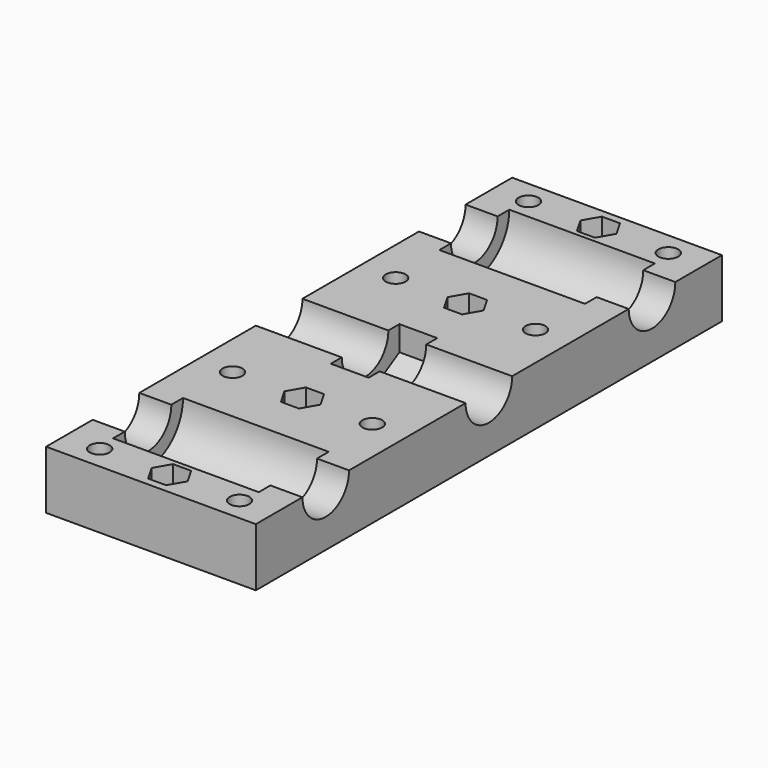
from build123d import *

# Parameters (mm, degrees)
PRISM004_DEPTH          = 5
PRISM003_DEPTH          = 5
PRISM002_DEPTH          = 5
PRISM001_DEPTH          = 5
CYLINDER016_R           = 1.7
CYLINDER016_DEPTH       = 10
CYLINDER015_R           = 1.7
CYLINDER015_DEPTH       = 10
CYLINDER014_R           = 1.7
CYLINDER014_DEPTH       = 10
CYLINDER013_R           = 1.7
CYLINDER013_DEPTH       = 10
CYLINDER012_R           = 1.7
CYLINDER012_DEPTH       = 10
CYLINDER011_R           = 1.7
CYLINDER011_DEPTH       = 10
CYLINDER010_R           = 1.7
CYLINDER010_DEPTH       = 10
CYLINDER009_R           = 1.7
CYLINDER009_DEPTH       = 10
CYLINDER008_R           = 1.7
CYLINDER008_DEPTH       = 10
CYLINDER007_R           = 1.7
CYLINDER007_DEPTH       = 10
CYLINDER006_R           = 1.7
CYLINDER006_DEPTH       = 10
CYLINDER005_R           = 1.7
CYLINDER005_DEPTH       = 10
PRISM_DEPTH             = 6.5
PRISM_PITCH_ANGLE       = 90
CYLINDER004_R           = 7.5
CYLINDER004_DEPTH       = 25
CYLINDER004_PITCH_ANGLE = 90
CYLINDER003_R           = 7.5
CYLINDER003_DEPTH       = 25
CYLINDER003_PITCH_ANGLE = 90
CYLINDER002_R           = 5
CYLINDER002_DEPTH       = 36
CYLINDER002_PITCH_ANGLE = 90
CYLINDER001_R           = 5
CYLINDER001_DEPTH       = 36
CYLINDER001_PITCH_ANGLE = 90
CYLINDER_R              = 5
CYLINDER_DEPTH          = 36
CYLINDER_PITCH_ANGLE    = 90
BOX_W                   = 36
BOX_H                   = 100
BOX_DEPTH               = 10


with BuildPart() as prisma004:
    # Prism004 → Prism004 (new body)
    with BuildSketch(Plane(origin=(18, 96, 5), x_dir=(1, 0, 0), z_dir=(0, 0, 1))):
        Polygon((3.1, 0), (1.55, 2.684679), (-1.55, 2.684679), (-3.1, 0), (-1.55, -2.684679), (1.55, -2.684679), align=None)
    extrude(amount=PRISM004_DEPTH)


with BuildPart() as prisma003:
    # Prism003 → Prism003 (new body)
    with BuildSketch(Plane(origin=(18, 67.5, 5), x_dir=(1, 0, 0), z_dir=(0, 0, 1))):
        Polygon((3.1, 0), (1.55, 2.684679), (-1.55, 2.684679), (-3.1, 0), (-1.55, -2.684679), (1.55, -2.684679), align=None)
    extrude(amount=PRISM003_DEPTH)


with BuildPart() as prisma002:
    # Prism002 → Prism002 (new body)
    with BuildSketch(Plane(origin=(18, 32.5, 5), x_dir=(1, 0, 0), z_dir=(0, 0, 1))):
        Polygon((3.1, 0), (1.55, 2.684679), (-1.55, 2.684679), (-3.1, 0), (-1.55, -2.684679), (1.55, -2.684679), align=None)
    extrude(amount=PRISM002_DEPTH)


with BuildPart() as prisma001:
    # Prism001 → Prism001 (new body)
    with BuildSketch(Plane(origin=(18, 4, 5), x_dir=(1, 0, 0), z_dir=(0, 0, 1))):
        Polygon((3.1, 0), (1.55, 2.684679), (-1.55, 2.684679), (-3.1, 0), (-1.55, -2.684679), (1.55, -2.684679), align=None)
    extrude(amount=PRISM001_DEPTH)


with BuildPart() as cilindro016:
    # Cylinder016 → Cylinder016 (new body)
    with BuildSketch(Plane(origin=(18, 96, 0), x_dir=(1, 0, 0), z_dir=(0, 0, 1))):
        Circle(CYLINDER016_R)
    extrude(amount=CYLINDER016_DEPTH)


with BuildPart() as cilindro015:
    # Cylinder015 → Cylinder015 (new body)
    with BuildSketch(Plane(origin=(18, 67.5, 0), x_dir=(1, 0, 0), z_dir=(0, 0, 1))):
        Circle(CYLINDER015_R)
    extrude(amount=CYLINDER015_DEPTH)


with BuildPart() as cilindro014:
    # Cylinder014 → Cylinder014 (new body)
    with BuildSketch(Plane(origin=(18, 32.5, 0), x_dir=(1, 0, 0), z_dir=(0, 0, 1))):
        Circle(CYLINDER014_R)
    extrude(amount=CYLINDER014_DEPTH)


with BuildPart() as cilindro013:
    # Cylinder013 → Cylinder013 (new body)
    with BuildSketch(Plane(origin=(18, 4, 0), x_dir=(1, 0, 0), z_dir=(0, 0, 1))):
        Circle(CYLINDER013_R)
    extrude(amount=CYLINDER013_DEPTH)


with BuildPart() as cilindro012:
    # Cylinder012 → Cylinder012 (new body)
    with BuildSketch(Plane(origin=(30, 96, 0), x_dir=(1, 0, 0), z_dir=(0, 0, 1))):
        Circle(CYLINDER012_R)
    extrude(amount=CYLINDER012_DEPTH)


with BuildPart() as cilindro011:
    # Cylinder011 → Cylinder011 (new body)
    with BuildSketch(Plane(origin=(6, 96, 0), x_dir=(1, 0, 0), z_dir=(0, 0, 1))):
        Circle(CYLINDER011_R)
    extrude(amount=CYLINDER011_DEPTH)


with BuildPart() as cilindro010:
    # Cylinder010 → Cylinder010 (new body)
    with BuildSketch(Plane(origin=(30, 67.5, 0), x_dir=(1, 0, 0), z_dir=(0, 0, 1))):
        Circle(CYLINDER010_R)
    extrude(amount=CYLINDER010_DEPTH)


with BuildPart() as cilindro009:
    # Cylinder009 → Cylinder009 (new body)
    with BuildSketch(Plane(origin=(6, 67.5, 0), x_dir=(1, 0, 0), z_dir=(0, 0, 1))):
        Circle(CYLINDER009_R)
    extrude(amount=CYLINDER009_DEPTH)


with BuildPart() as cilindro008:
    # Cylinder008 → Cylinder008 (new body)
    with BuildSketch(Plane(origin=(30, 32.5, 0), x_dir=(1, 0, 0), z_dir=(0, 0, 1))):
        Circle(CYLINDER008_R)
    extrude(amount=CYLINDER008_DEPTH)


with BuildPart() as cilindro007:
    # Cylinder007 → Cylinder007 (new body)
    with BuildSketch(Plane(origin=(6, 32.5, 0), x_dir=(1, 0, 0), z_dir=(0, 0, 1))):
        Circle(CYLINDER007_R)
    extrude(amount=CYLINDER007_DEPTH)


with BuildPart() as cilindro006:
    # Cylinder006 → Cylinder006 (new body)
    with BuildSketch(Plane(origin=(30, 4, 0), x_dir=(1, 0, 0), z_dir=(0, 0, 1))):
        Circle(CYLINDER006_R)
    extrude(amount=CYLINDER006_DEPTH)


with BuildPart() as cilindro005:
    # Cylinder005 → Cylinder005 (new body)
    with BuildSketch(Plane(origin=(6, 4, 0), x_dir=(1, 0, 0), z_dir=(0, 0, 1))):
        Circle(CYLINDER005_R)
    extrude(amount=CYLINDER005_DEPTH)


with BuildPart() as prisma:
    # Prism → Prism (new body)
    with BuildSketch(Plane.XY):
        Polygon((8.5, 0), (4.25, 7.361216), (-4.25, 7.361216), (-8.5, 0), (-4.25, -7.361216), (4.25, -7.361216), align=None)
    extrude(amount=PRISM_DEPTH)


with BuildPart() as prisma_1:
    # Prism pitch: moved
    add(prisma.part.rotate(Axis((0, 0, 0), (0, 1, 0)), PRISM_PITCH_ANGLE))


with BuildPart() as prisma_2:
    # Prism placement: moved
    add(prisma_1.part.moved(Location((14.75, 50, 10))))


with BuildPart() as cilindro004:
    # Cylinder004 → Cylinder004 (new body)
    with BuildSketch(Plane.XY):
        Circle(CYLINDER004_R)
    extrude(amount=CYLINDER004_DEPTH)


with BuildPart() as cilindro004_1:
    # Cylinder004 pitch: moved
    add(cilindro004.part.rotate(Axis((0, 0, 0), (0, 1, 0)), CYLINDER004_PITCH_ANGLE))


with BuildPart() as cilindro004_2:
    # Cylinder004 placement: moved
    add(cilindro004_1.part.moved(Location((5.5, 85, 10))))


with BuildPart() as cilindro003:
    # Cylinder003 → Cylinder003 (new body)
    with BuildSketch(Plane.XY):
        Circle(CYLINDER003_R)
    extrude(amount=CYLINDER003_DEPTH)


with BuildPart() as cilindro003_1:
    # Cylinder003 pitch: moved
    add(cilindro003.part.rotate(Axis((0, 0, 0), (0, 1, 0)), CYLINDER003_PITCH_ANGLE))


with BuildPart() as cilindro003_2:
    # Cylinder003 placement: moved
    add(cilindro003_1.part.moved(Location((5.5, 15, 10))))


with BuildPart() as cilindro002:
    # Cylinder002 → Cylinder002 (new body)
    with BuildSketch(Plane.XY):
        Circle(CYLINDER002_R)
    extrude(amount=CYLINDER002_DEPTH)


with BuildPart() as cilindro002_1:
    # Cylinder002 pitch: moved
    add(cilindro002.part.rotate(Axis((0, 0, 0), (0, 1, 0)), CYLINDER002_PITCH_ANGLE))


with BuildPart() as cilindro002_2:
    # Cylinder002 placement: moved
    add(cilindro002_1.part.moved(Location((0, 85, 10))))


with BuildPart() as cilindro001:
    # Cylinder001 → Cylinder001 (new body)
    with BuildSketch(Plane.XY):
        Circle(CYLINDER001_R)
    extrude(amount=CYLINDER001_DEPTH)


with BuildPart() as cilindro001_1:
    # Cylinder001 pitch: moved
    add(cilindro001.part.rotate(Axis((0, 0, 0), (0, 1, 0)), CYLINDER001_PITCH_ANGLE))


with BuildPart() as cilindro001_2:
    # Cylinder001 placement: moved
    add(cilindro001_1.part.moved(Location((0, 50, 10))))


with BuildPart() as cilindro:
    # Cylinder → Cylinder (new body)
    with BuildSketch(Plane.XY):
        Circle(CYLINDER_R)
    extrude(amount=CYLINDER_DEPTH)


with BuildPart() as cilindro_1:
    # Cylinder pitch: moved
    add(cilindro.part.rotate(Axis((0, 0, 0), (0, 1, 0)), CYLINDER_PITCH_ANGLE))


with BuildPart() as cilindro_2:
    # Cylinder placement: moved
    add(cilindro_1.part.moved(Location((0, 15, 10))))


with BuildPart() as cut021:
    # Box → Box (new body)
    with BuildSketch(Plane.XY):
        with Locations((18, 50)):
            Rectangle(BOX_W, BOX_H)
    extrude(amount=BOX_DEPTH)

    # Cut: cut Cilindro
    add(cilindro_2.part, mode=Mode.SUBTRACT)

    # Cut001: cut Cilindro001
    add(cilindro001_2.part, mode=Mode.SUBTRACT)

    # Cut002: cut Cilindro002
    add(cilindro002_2.part, mode=Mode.SUBTRACT)

    # Cut003: cut Cilindro003
    add(cilindro003_2.part, mode=Mode.SUBTRACT)

    # Cut004: cut Cilindro004
    add(cilindro004_2.part, mode=Mode.SUBTRACT)

    # Cut005: cut Prisma
    add(prisma_2.part, mode=Mode.SUBTRACT)

    # Cut006: cut Cilindro005
    add(cilindro005.part, mode=Mode.SUBTRACT)

    # Cut007: cut Cilindro006
    add(cilindro006.part, mode=Mode.SUBTRACT)

    # Cut008: cut Cilindro007
    add(cilindro007.part, mode=Mode.SUBTRACT)

    # Cut009: cut Cilindro008
    add(cilindro008.part, mode=Mode.SUBTRACT)

    # Cut010: cut Cilindro009
    add(cilindro009.part, mode=Mode.SUBTRACT)

    # Cut011: cut Cilindro010
    add(cilindro010.part, mode=Mode.SUBTRACT)

    # Cut012: cut Cilindro011
    add(cilindro011.part, mode=Mode.SUBTRACT)

    # Cut013: cut Cilindro012
    add(cilindro012.part, mode=Mode.SUBTRACT)

    # Cut014: cut Cilindro013
    add(cilindro013.part, mode=Mode.SUBTRACT)

    # Cut015: cut Cilindro014
    add(cilindro014.part, mode=Mode.SUBTRACT)

    # Cut016: cut Cilindro015
    add(cilindro015.part, mode=Mode.SUBTRACT)

    # Cut017: cut Cilindro016
    add(cilindro016.part, mode=Mode.SUBTRACT)

    # Cut018: cut Prisma001
    add(prisma001.part, mode=Mode.SUBTRACT)

    # Cut019: cut Prisma002
    add(prisma002.part, mode=Mode.SUBTRACT)

    # Cut020: cut Prisma003
    add(prisma003.part, mode=Mode.SUBTRACT)

    # Cut021: cut Prisma004
    add(prisma004.part, mode=Mode.SUBTRACT)


solid = cut021.part
